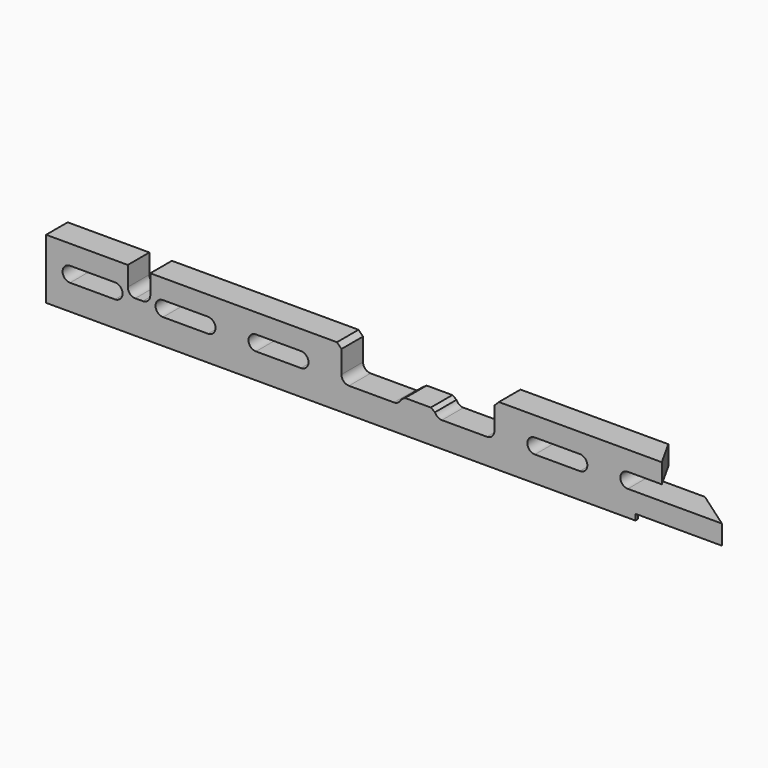
from build123d import *

# Parameters (mm, degrees)
F1_DEPTH = 18
F3_DEPTH = 25
F5_DEPTH = 18
F6_W     = 16
F6_H     = 4
F7_DEPTH = 600
F9_D     = 6
F9_DEPTH = 8
F9_TIP   = 1.8025818571


with BuildPart() as f1:
    # F0 (on Front) → F1 (new body)
    with BuildSketch(Plane.XZ):
        with BuildLine():
            Line((112.5127500061, 30.0339285255), (112.5127500061, 43.0339285255))
            Line((112.5127500061, 43.0339285255), (3.8390576642, 43.0339285255))
            Line((3.8390576642, 43.0339285255), (0.8390576642, 40.0339285255))
            Line((0.8390576642, 40.0339285255), (0.8390576642, 25.0339285255))
            ThreePointArc((0.8390576642, 25.0339285255), (-0.6254084298, 21.4983946196), (-4.1609423358, 20.0339285255))
            Line((-4.1609423358, 20.0339285255), (-34.1609423358, 20.0339285255))
            ThreePointArc((-34.1609423358, 20.0339285255), (-36.9560273076, 20.8881475376), (-38.7960663902, 23.1589285255))
            Line((-38.7960663902, 23.1589285255), (-41.5771408229, 25.0339285255))
            Line((-41.5771408229, 25.0339285255), (-58.7447438487, 25.0339285255))
            Line((-58.7447438487, 25.0339285255), (-61.5258182813, 23.1589285255))
            ThreePointArc((-61.5258182813, 23.1589285255), (-63.3658573639, 20.8881475376), (-66.1609423358, 20.0339285255))
            Line((-66.1609423358, 20.0339285255), (-96.1609423358, 20.0339285255))
            ThreePointArc((-96.1609423358, 20.0339285255), (-99.6964762417, 21.4983946196), (-101.1609423358, 25.0339285255))
            Line((-101.1609423358, 25.0339285255), (-101.1609423358, 40.0339285255))
            Line((-101.1609423358, 40.0339285255), (-104.1609423358, 43.0339285255))
            Line((-104.1609423358, 43.0339285255), (-228.6609423358, 43.0339285255))
            Line((-228.6609423358, 43.0339285255), (-228.6609423358, 30.0339285255))
            ThreePointArc((-228.6609423358, 30.0339285255), (-230.1254084298, 26.4983946196), (-233.6609423358, 25.0339285255))
            Line((-233.6609423358, 25.0339285255), (-238.6609423358, 25.0339285255))
            ThreePointArc((-238.6609423358, 25.0339285255), (-242.1964762417, 26.4983946196), (-243.6609423358, 30.0339285255))
            Line((-243.6609423358, 30.0339285255), (-243.6609423358, 43.0339285255))
            Line((-243.6609423358, 43.0339285255), (-298.1612311549, 43.0339285255))
            Line((-298.1612311549, 43.0339285255), (-298.1612311549, 3.0339285255))
            Line((-298.1612311549, 3.0339285255), (94.8881047238, 3.0339285255))
            Line((94.8881047238, 3.0339285255), (94.8881047238, 7.0339285255))
            Line((94.8881047238, 7.0339285255), (152.5947688451, 7.0339285255))
            Line((152.5947688451, 7.0339285255), (152.5947688451, 20.0339285255))
            Line((152.5947688451, 20.0339285255), (89.8390576642, 20.0339285255))
            ThreePointArc((89.8390576642, 20.0339285255), (84.8390576642, 25.0339285255), (89.8390576642, 30.0339285255))
            Line((89.8390576642, 30.0339285255), (112.5127500061, 30.0339285255))
        make_face()
        with BuildLine():
            ThreePointArc((-282.1609423358, 20.0339285255), (-287.1609423358, 25.0339285255), (-282.1609423358, 30.0339285255))
            Line((-282.1609423358, 30.0339285255), (-252.1609423358, 30.0339285255))
            ThreePointArc((-252.1609423358, 30.0339285255), (-247.1609423358, 25.0339285255), (-252.1609423358, 20.0339285255))
            Line((-252.1609423358, 20.0339285255), (-282.1609423358, 20.0339285255))
        make_face(mode=Mode.SUBTRACT)
        with BuildLine():
            ThreePointArc((-220.1609423358, 20.0339285255), (-225.1609423358, 25.0339285255), (-220.1609423358, 30.0339285255))
            Line((-220.1609423358, 30.0339285255), (-190.1609423358, 30.0339285255))
            ThreePointArc((-190.1609423358, 30.0339285255), (-185.1609423358, 25.0339285255), (-190.1609423358, 20.0339285255))
            Line((-190.1609423358, 20.0339285255), (-220.1609423358, 20.0339285255))
        make_face(mode=Mode.SUBTRACT)
        with BuildLine():
            ThreePointArc((-158.1609423358, 20.0339285255), (-163.1609423358, 25.0339285255), (-158.1609423358, 30.0339285255))
            Line((-158.1609423358, 30.0339285255), (-128.1609423358, 30.0339285255))
            ThreePointArc((-128.1609423358, 30.0339285255), (-123.1609423358, 25.0339285255), (-128.1609423358, 20.0339285255))
            Line((-128.1609423358, 20.0339285255), (-158.1609423358, 20.0339285255))
        make_face(mode=Mode.SUBTRACT)
        with BuildLine():
            ThreePointArc((27.8390576642, 20.0339285255), (22.8390576642, 25.0339285255), (27.8390576642, 30.0339285255))
            Line((27.8390576642, 30.0339285255), (57.8390576642, 30.0339285255))
            ThreePointArc((57.8390576642, 30.0339285255), (62.8390576642, 25.0339285255), (57.8390576642, 20.0339285255))
            Line((57.8390576642, 20.0339285255), (27.8390576642, 20.0339285255))
        make_face(mode=Mode.SUBTRACT)
    extrude(amount=F1_DEPTH)

    # F2 (on face) → F3 (cut)
    with BuildSketch(Plane.XY.offset(20.0339285255)):
        Polygon((152.5947688451, -18), (152.5947688451, 0), (126.8877688451, 0), align=None)
    extrude(amount=-F3_DEPTH, mode=Mode.SUBTRACT)

    # F4 (on face) → F5 (cut)
    with BuildSketch(Plane.XY.offset(43.0339285255)):
        Polygon((112.5127500061, -18), (112.5127500061, 0), (102.4437500061, 0), align=None)
    extrude(amount=-F5_DEPTH, mode=Mode.SUBTRACT)

    # F6 (on face) → F7 (cut)
    with BuildSketch(Plane.YZ.offset(94.8881047238)):
        with Locations((-8, 5.0339285255)):
            Rectangle(F6_W, F6_H)
    extrude(amount=-F7_DEPTH, mode=Mode.SUBTRACT)

    # F9
    with Locations(Plane(origin=(0, 0, 7.0339285255), x_dir=(1, 0, 0), z_dir=(0, 0, -1))):
        with Locations((-186.1612311549, 11), (-6.1612311549, 11)):
            Hole(F9_D / 2, depth=F9_DEPTH)
            with Locations((0, 0, -(F9_DEPTH + F9_TIP / 2))):  # 118° drill point
                Cone(0, F9_D / 2, F9_TIP, mode=Mode.SUBTRACT)


solid = f1.part
